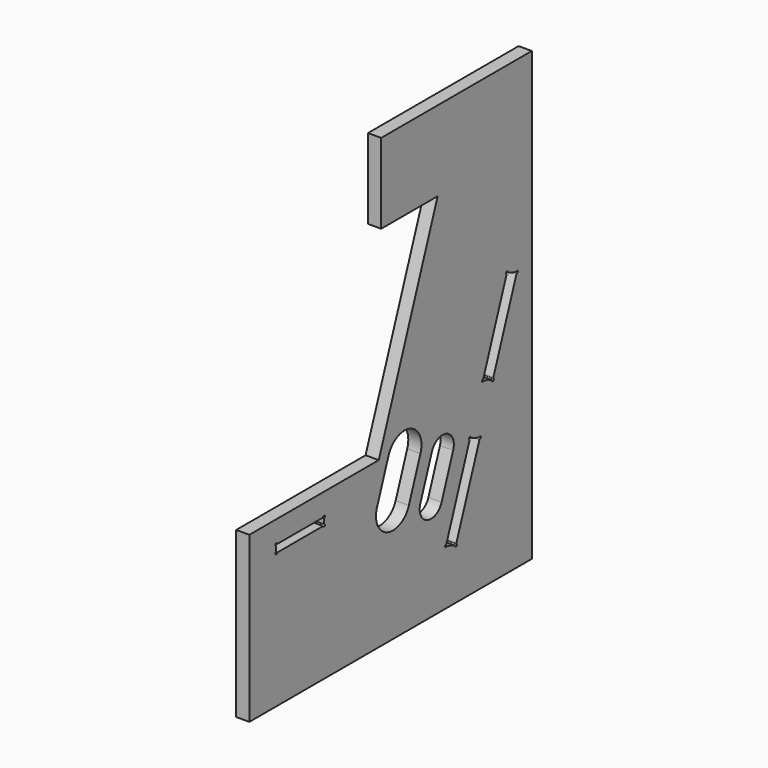
from build123d import *

# Parameters (mm, degrees)
PAD001_DEPTH    = 2.8
POCKET005_DEPTH = 2.801
SKETCH021_W     = 12.7
SKETCH021_H     = 1.6
POCKET010_DEPTH = 2.801
SKETCH022_R     = 0.25
POCKET011_DEPTH = 2.801


with BuildPart() as part:
    # Sketch001 (on Face18 of ShapeBinder) → Pad001 (new body)
    with BuildSketch(Plane.YZ.offset(35)):
        Polygon((-22.588718, 60.327675), (17.411282, 60.327675), (17.411282, -34.672325), (-57.588718, -34.672325), (-57.588718, 0.327675), (-23.239438, 0.327675), (-7.588718, 43.327675), (-22.588718, 43.327675), align=None)
        with BuildLine():
            ThreePointArc((-12.161797, -2.94822), (-14.851323, 2.819487), (-20.61903, 0.129961))
            Line((-20.61903, 0.129961), (-23.697212, -8.327272))
            ThreePointArc((-23.697212, -8.327272), (-21.007685, -14.09498), (-15.239978, -11.405454))
            Line((-15.239978, -11.405454), (-12.161797, -2.94822))
        make_face(mode=Mode.SUBTRACT)
        with BuildLine():
            ThreePointArc((-3.468033, -5.876244), (-5.261051, -2.031105), (-9.106189, -3.824123))
            Line((-9.106189, -3.824123), (-12.18437, -12.281356))
            ThreePointArc((-12.18437, -12.281356), (-10.391353, -16.126495), (-6.546214, -14.333477))
            Line((-6.546214, -14.333477), (-3.468033, -5.876244))
        make_face(mode=Mode.SUBTRACT)
        Polygon((10.819102, 21.538585), (13.450241, 20.580929), (7.057884, 3.018073), (4.426745, 3.97573), align=None, mode=Mode.SUBTRACT)
        Polygon((1.006544, -5.421196), (3.637683, -6.378853), (-2.754673, -23.941708), (-5.385813, -22.984051), align=None, mode=Mode.SUBTRACT)
    extrude(amount=PAD001_DEPTH)

    # Sketch013 (on Face26 of Pad001) → Pocket005 (cut, through all)
    with BuildSketch(Plane.YZ.offset(37.8)):
        with BuildLine():
            ThreePointArc((1.252746, -5.377784), (0.900889, -5.194619), (0.815033, -5.581893))
            ThreePointArc((0.858445, -5.828095), (0.869723, -5.699178), (0.815033, -5.581893))
            Line((0.858445, -5.828095), (1.413442, -5.569295))
            ThreePointArc((1.252746, -5.377784), (1.307436, -5.495069), (1.413442, -5.569295))
        make_face()
        with BuildLine():
            ThreePointArc((3.681095, -6.625055), (3.86426, -6.273198), (3.476986, -6.187342))
            ThreePointArc((3.230784, -6.230754), (3.359701, -6.242032), (3.476986, -6.187342))
            Line((3.489584, -6.785752), (3.230784, -6.230754))
            ThreePointArc((3.681095, -6.625055), (3.56381, -6.679746), (3.489584, -6.785752))
        make_face()
        with BuildLine():
            ThreePointArc((-5.429225, -22.737849), (-5.61239, -23.089706), (-5.225116, -23.175563))
            ThreePointArc((-4.978914, -23.13215), (-5.107831, -23.120872), (-5.225116, -23.175563))
            Line((-5.237714, -22.577153), (-4.978914, -23.13215))
            ThreePointArc((-5.429225, -22.737849), (-5.31194, -22.683159), (-5.237714, -22.577153))
        make_face()
        with BuildLine():
            ThreePointArc((-3.000875, -23.98512), (-2.649019, -24.168285), (-2.563162, -23.781011))
            ThreePointArc((-2.606574, -23.534809), (-2.617853, -23.663726), (-2.563162, -23.781011))
            Line((-2.606574, -23.534809), (-3.161572, -23.793609))
            ThreePointArc((-3.000875, -23.98512), (-3.055566, -23.867835), (-3.161572, -23.793609))
        make_face()
        with BuildLine():
            ThreePointArc((11.065304, 21.581997), (10.713447, 21.765162), (10.62759, 21.377888))
            ThreePointArc((10.671003, 21.131686), (10.682281, 21.260603), (10.62759, 21.377888))
            Line((10.671003, 21.131686), (11.226, 21.390486))
            ThreePointArc((11.065304, 21.581997), (11.119994, 21.464712), (11.226, 21.390486))
        make_face()
        with BuildLine():
            ThreePointArc((13.493653, 20.334727), (13.676818, 20.686583), (13.289544, 20.77244))
            ThreePointArc((13.043342, 20.729028), (13.172259, 20.717749), (13.289544, 20.77244))
            Line((13.302142, 20.17403), (13.043342, 20.729028))
            ThreePointArc((13.493653, 20.334727), (13.376368, 20.280036), (13.302142, 20.17403))
        make_face()
        with BuildLine():
            ThreePointArc((4.383333, 4.221932), (4.200168, 3.870075), (4.587442, 3.784219))
            ThreePointArc((4.833644, 3.827631), (4.704727, 3.83891), (4.587442, 3.784219))
            Line((4.574844, 4.382629), (4.833644, 3.827631))
            ThreePointArc((4.383333, 4.221932), (4.500618, 4.276623), (4.574844, 4.382629))
        make_face()
        with BuildLine():
            ThreePointArc((6.811682, 2.974661), (7.163539, 2.791497), (7.249396, 3.17877))
            ThreePointArc((7.205983, 3.424972), (7.194705, 3.296055), (7.249396, 3.17877))
            Line((7.205983, 3.424972), (6.650986, 3.166173))
            ThreePointArc((6.811682, 2.974661), (6.756992, 3.091946), (6.650986, 3.166173))
        make_face()
    extrude(amount=-POCKET005_DEPTH, mode=Mode.SUBTRACT)

    # Sketch021 (on Face5 of Pocket005) → Pocket010 (cut, through all)
    with BuildSketch(Plane.YZ.offset(37.8)):
        with Locations((-44.116, -5.2)):
            Rectangle(SKETCH021_W, SKETCH021_H)
    extrude(amount=-POCKET010_DEPTH, mode=Mode.SUBTRACT)

    # Sketch022 (on Face5 of Pocket010) → Pocket011 (cut, through all)
    with BuildSketch(Plane.YZ.offset(37.8)):
        with Locations((-50.466, -4.4)):
            Circle(SKETCH022_R)
        with Locations((-37.766, -4.4)):
            Circle(SKETCH022_R)
        with Locations((-37.766, -6)):
            Circle(SKETCH022_R)
        with Locations((-50.466, -6)):
            Circle(SKETCH022_R)
    extrude(amount=-POCKET011_DEPTH, mode=Mode.SUBTRACT)


solid = part.part
